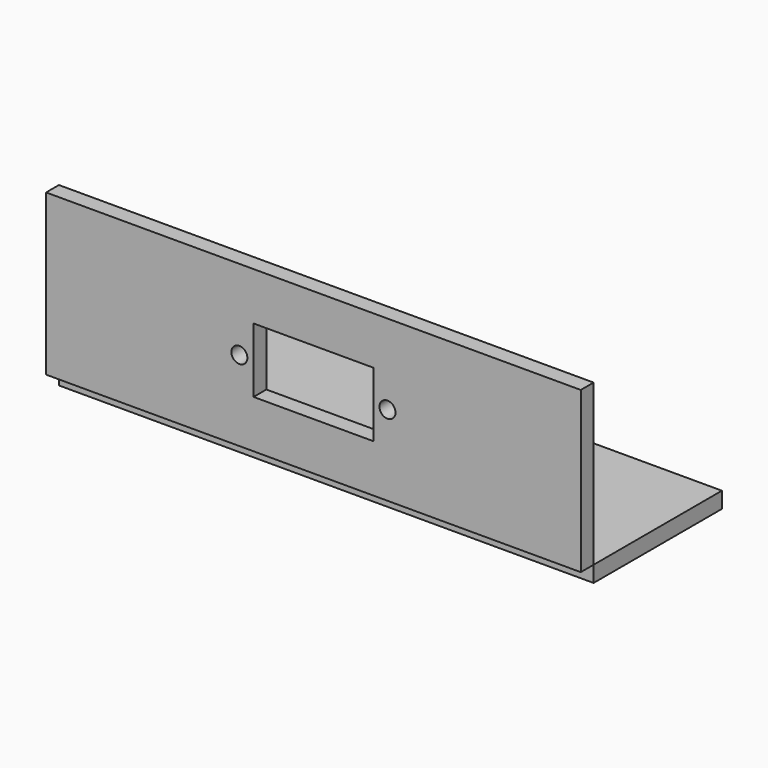
from build123d import *

# Parameters (mm, degrees)
F0_W     = 100
F0_H     = 30
F1_DEPTH = 1.5
F2_W     = 100
F2_H     = 30
F3_DEPTH = 3
F4_R     = 1.5
F4_W     = 22.4
F4_H     = 12.1
F5_DEPTH = 33.001
F6_R     = 1.5
F7_DEPTH = 3.001


with BuildPart() as f1:
    # F0 (on Top) → F1 (new body, symmetric)
    with BuildSketch(Plane.XY):
        Rectangle(F0_W, F0_H)
    extrude(amount=F1_DEPTH, both=True)

    # F6 (on face) → F7 (cut, through all)
    with BuildSketch(Plane.XY.offset(1.5)):
        with Locations((30, 0)):
            Circle(F6_R)
        with Locations((-30, 0)):
            Circle(F6_R)
    extrude(amount=-F7_DEPTH, mode=Mode.SUBTRACT)


with BuildPart() as f3:
    # F2 (on face) → F3 (new body)
    with BuildSketch(Plane.XZ.offset(15)):
        with Locations((0, 16.5)):
            Rectangle(F2_W, F2_H)
    extrude(amount=F3_DEPTH)

    # F4 (on face) → F5 (cut, through all)
    with BuildSketch(Plane.XZ.offset(18)):
        with Locations((-13.85, 16.5)):
            Circle(F4_R)
        with Locations((13.85, 16.5)):
            Circle(F4_R)
        with Locations((0, 16.5)):
            Rectangle(F4_W, F4_H)
    extrude(amount=-F5_DEPTH, mode=Mode.SUBTRACT)


solid = Compound([f1.part, f3.part])
